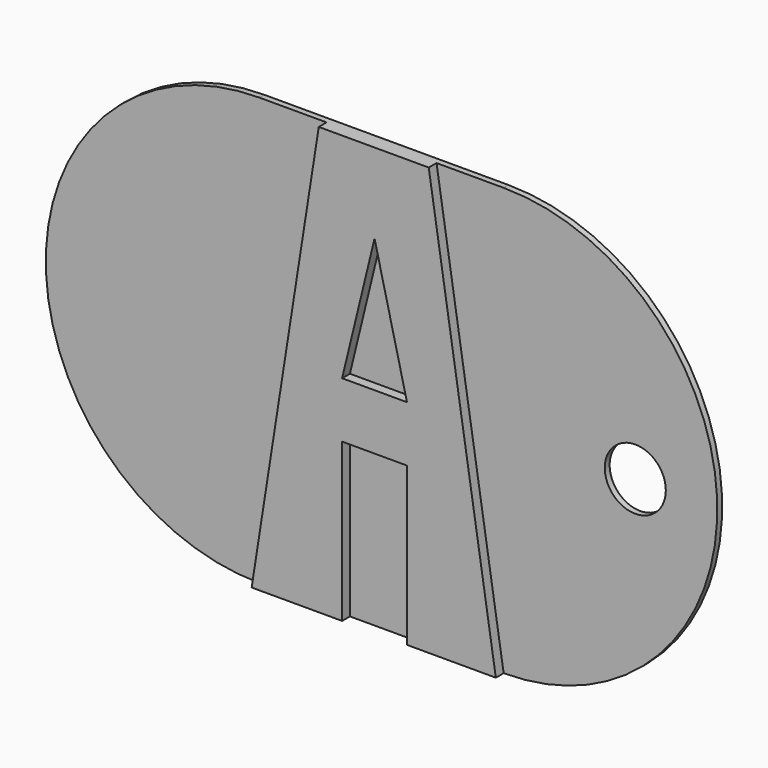
from build123d import *

# Parameters (mm, degrees)
F0_R     = 3.175
F1_DEPTH = 0.635
F3_DEPTH = 1.016


with BuildPart() as f1:
    # F0 (on Front) → F1 (new body)
    with BuildSketch(Plane.XZ):
        with BuildLine():
            Line((28.402705, 22.225), (3.002705, 22.225))
            ThreePointArc((3.002705, 22.225), (-19.222295, 0), (3.002705, -22.225))
            Line((3.002705, -22.225), (28.402705, -22.225))
            ThreePointArc((28.402705, -22.225), (50.627705, 0), (28.402705, 22.225))
        make_face()
        with Locations((42.094897, 0)):
            Circle(F0_R, mode=Mode.SUBTRACT)
    extrude(amount=F1_DEPTH)

    # F2 (on face) → F3 (join)
    with BuildSketch(Plane.XZ.offset(0.635)):
        Polygon((9.984385, 22.225), (3.002705, -22.225), (12.413018, -22.225), (12.413018, -5.801737), (19.159222, -5.801737), (19.159222, -22.225), (28.402705, -22.225), (21.421025, 22.225), align=None)
        Polygon((19.159222, 0), (12.413018, 0), (15.78612, 13.897184), align=None, mode=Mode.SUBTRACT)
    extrude(amount=F3_DEPTH)


solid = f1.part
